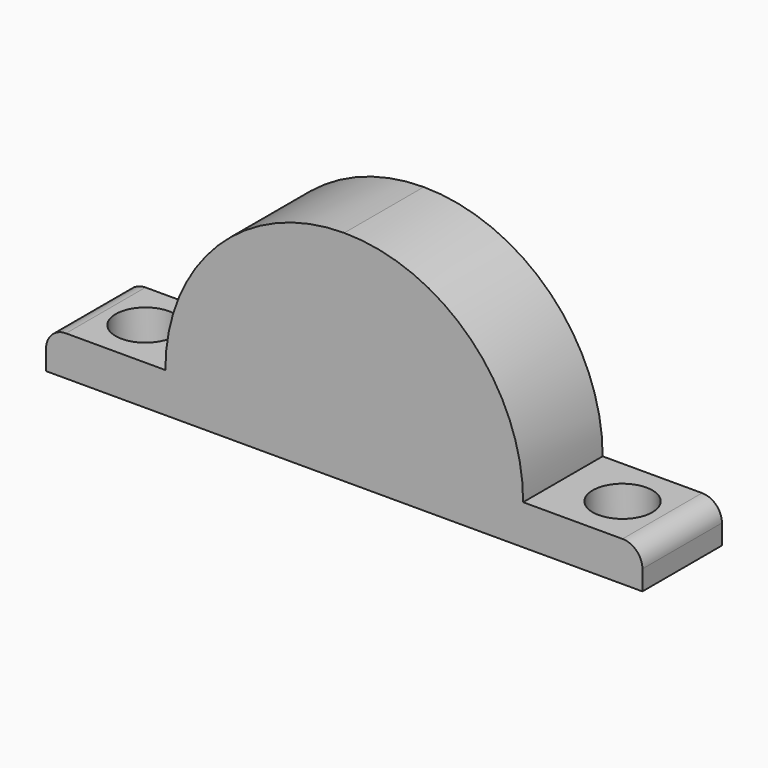
from build123d import *

# Parameters (mm, degrees)
F1_DEPTH = 25
F2_R     = 7.5
F3_DEPTH = 10.001


with BuildPart() as f1:
    # F0 (on Front) → F1 (new body)
    with BuildSketch(Plane.XZ):
        with BuildLine():
            Line((-45, 10), (-45, 0))
            Line((-45, 0), (45, 0))
            Line((45, 0), (45, 10))
            ThreePointArc((45, 10), (31.819805, 41.819805), (0, 55))
            ThreePointArc((0, 55), (-31.819805, 41.819805), (-45, 10))
        make_face()
        with BuildLine():
            Line((-75, 5), (-75, 0))
            Line((-75, 0), (-45, 0))
            Line((-45, 0), (-45, 10))
            Line((-45, 10), (-70, 10))
            ThreePointArc((-70, 10), (-73.535534, 8.535534), (-75, 5))
        make_face()
        with BuildLine():
            Line((45, 10), (45, 0))
            Line((45, 0), (75, 0))
            Line((75, 0), (75, 5))
            ThreePointArc((75, 5), (73.535534, 8.535534), (70, 10))
            Line((70, 10), (45, 10))
        make_face()
    extrude(amount=F1_DEPTH)

    # F2 (on face) → F3 (cut, through all)
    with BuildSketch(Plane.XY.offset(10)):
        with Locations((-60, -12.5)):
            Circle(F2_R)
        with Locations((60, -12.5)):
            Circle(F2_R)
    extrude(amount=-F3_DEPTH, mode=Mode.SUBTRACT)


solid = f1.part
